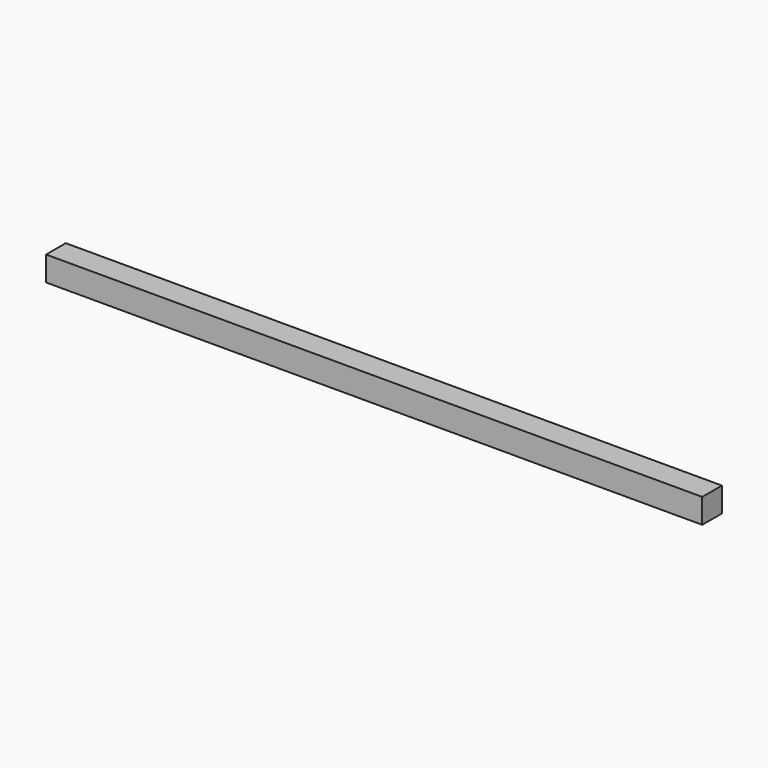
from build123d import *

# Parameters (mm, degrees)
SKETCH_W  = 18
SKETCH_H  = 18
PAD_DEPTH = 480


with BuildPart() as part:
    # Sketch → Pad (new body)
    with BuildSketch(Plane.YZ):
        with Locations((9, 9)):
            Rectangle(SKETCH_W, SKETCH_H)
    extrude(amount=PAD_DEPTH)


solid = part.part
